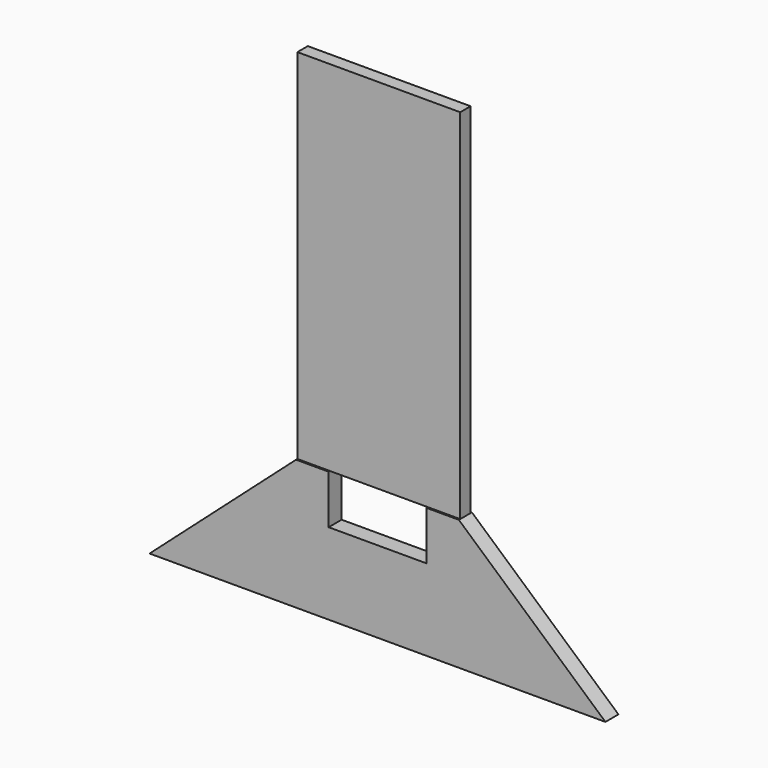
from build123d import *

# Parameters (mm, degrees)
F0_W     = 250
F0_H     = 20
F1_DEPTH = 550
F3_DEPTH = 12.5


with BuildPart() as f1:
    # F0 (on Top) → F1 (new body)
    with BuildSketch(Plane.XY):
        Rectangle(F0_W, F0_H)
    extrude(amount=F1_DEPTH)

    # F2 (on Front) → F3 (join, symmetric)
    with BuildSketch(Plane.XZ):
        Polygon((75, 0), (75, -75), (-75, -75), (-75, 0), (-125.045896, 0), (-350, -200), (350, -200), (124.919437, 0), align=None)
    extrude(amount=F3_DEPTH, both=True)


solid = f1.part
